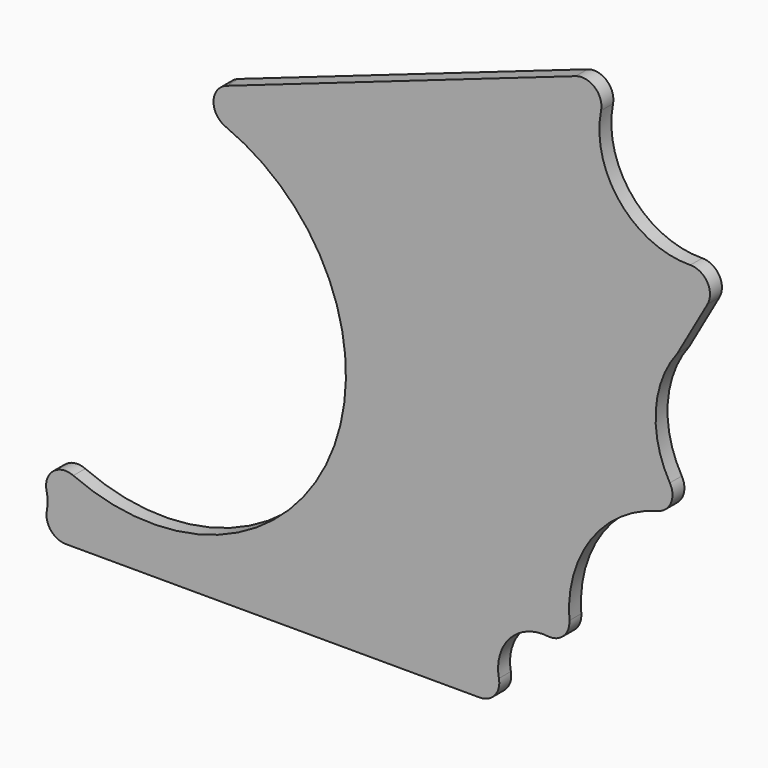
from build123d import *

# Parameters (mm, degrees)
F1_DEPTH = 5


with BuildPart() as f1:
    # F0 (on Front) → F1 (new body)
    with BuildSketch(Plane.XZ):
        with BuildLine():
            ThreePointArc((180.426172, 69.952318), (156.924857, 80.749479), (150.515433, 105.805611))
            ThreePointArc((150.515433, 105.805611), (148.396748, 111.971781), (141.992947, 113.197267))
            Line((141.992947, 113.197267), (24.977627, 72.291896))
            ThreePointArc((24.977627, 72.291896), (20.624833, 66.327531), (24.656881, 60.141818))
            ThreePointArc((24.656881, 60.141818), (59.782037, -25.516818), (-26.371508, -59.409962))
            ThreePointArc((-26.371508, -59.409962), (-33.123527, -60.319272), (-35.354878, -66.756482))
            ThreePointArc((-35.354878, -66.756482), (-35.002096, -69.749225), (-35.254627, -72.752088))
            ThreePointArc((-35.254627, -72.752088), (-33.867619, -78.094776), (-28.873004, -80.444654))
            Line((-28.873004, -80.444654), (109.889676, -80.616244))
            ThreePointArc((109.889676, -80.616244), (114.912074, -78.252212), (116.277475, -72.871802))
            ThreePointArc((116.277475, -72.871802), (119.973419, -59.830707), (132.673432, -55.093638))
            ThreePointArc((132.673432, -55.093638), (137.91606, -53.307802), (139.87891, -48.128846))
            ThreePointArc((139.87891, -48.128846), (147.156354, -21.745183), (169.624878, -6.117505))
            ThreePointArc((169.624878, -6.117505), (173.959279, -2.31266), (173.561799, 3.441112))
            ThreePointArc((173.561799, 3.441112), (168.857536, 23.360739), (176.097329, 42.505112))
            Line((176.097329, 42.505112), (186.170538, 60.243172))
            ThreePointArc((186.170538, 60.243172), (186.112573, 66.762762), (180.426172, 69.952318))
        make_face()
    extrude(amount=F1_DEPTH)


solid = f1.part
